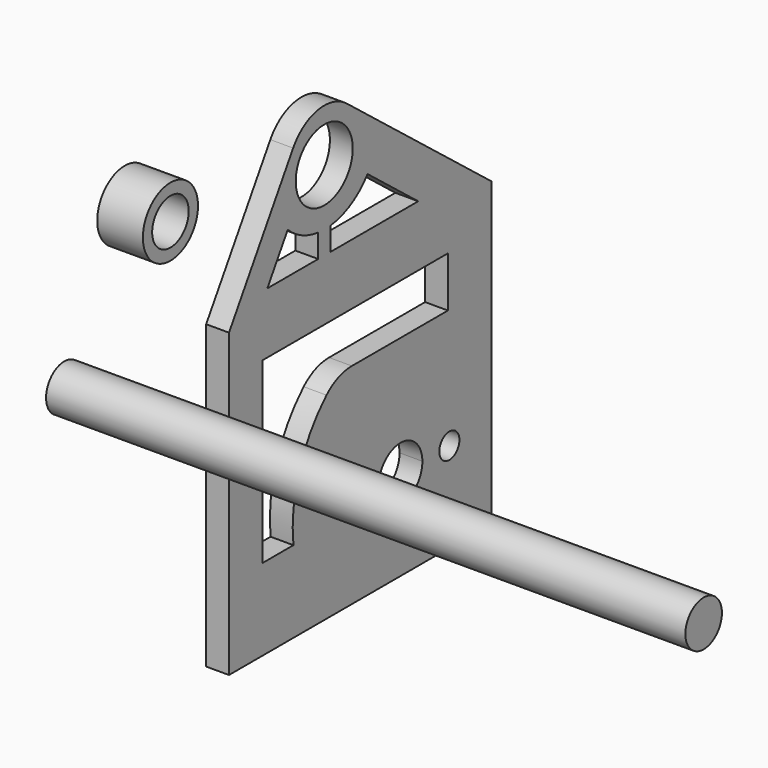
from build123d import *

# Parameters (mm, degrees)
F0_R     = 1.75
F0_R_2   = 4.953
F1_DEPTH = 3.175
F2_R     = 4.7879
F2_R_2   = 3.175
F3_DEPTH = 6.35
F4_R     = 3.175
F5_DEPTH = 88.9


with BuildPart() as f1:
    # F0 (on Right) → F1 (new body)
    with BuildSketch(Plane.YZ):
        with Locations((-8.5, -15.851508)):
            Circle(F0_R)
        with BuildLine():
            ThreePointArc((10.25, -15.851508), (8.5, -14.101508), (6.75, -15.851508))
            ThreePointArc((6.75, -15.851508), (8.5, -17.601508), (10.25, -15.851508))
        make_face()
        with BuildLine():
            Line((-29.798884, 13.558492), (-29.798884, -28.351508))
            Line((-29.798884, -28.351508), (0, -28.351508))
            Line((0, -28.351508), (15.793409, -28.351508))
            Line((15.793409, -28.351508), (15.793409, 13.558492))
            Line((15.793409, 13.558492), (-9.325447, 33.280342))
            ThreePointArc((-9.325447, 33.280342), (-14.359312, 34.537623), (-18.650459, 31.621013))
            Line((-18.650459, 31.621013), (-29.798884, 13.558492))
        make_face()
        with Locations((-8.5, -15.851508)):
            Circle(F0_R, mode=Mode.SUBTRACT)
        with BuildLine():
            Line((-23.954652, -17.007083), (-23.954652, 7.805048))
            Line((-23.954652, 7.805048), (8.252467, 7.805048))
            Line((8.252467, 7.805048), (8.252467, 0.79927))
            Line((8.252467, 0.79927), (-8.448028, 0.79927))
            ThreePointArc((-8.448028, 0.79927), (-10.824796, 0.337689), (-12.85603, -0.979951))
            ThreePointArc((-12.85603, -0.979951), (-17.602587, -8.321876), (-18.603018, -17.007083))
            Line((-18.603018, -17.007083), (-23.954652, -17.007083))
        make_face(mode=Mode.SUBTRACT)
        with BuildLine():
            ThreePointArc((3.81, -15.851508), (2.694077, -18.545585), (0, -19.661508))
            ThreePointArc((0, -19.661508), (-2.694077, -18.545585), (-3.81, -15.851508))
            ThreePointArc((-3.81, -15.851508), (0, -12.041508), (3.81, -15.851508))
        make_face(mode=Mode.SUBTRACT)
        with BuildLine():
            ThreePointArc((10.25, -15.851508), (8.5, -17.601508), (6.75, -15.851508))
            ThreePointArc((6.75, -15.851508), (8.5, -14.101508), (10.25, -15.851508))
        make_face(mode=Mode.SUBTRACT)
        with BuildLine():
            Line((-23.135227, 16.272037), (-19.596748, 22.005032))
            ThreePointArc((-19.596748, 22.005032), (-17.150351, 20.329192), (-14.300954, 19.508078))
            ThreePointArc((-14.300954, 19.508078), (-13.248808, 19.440783), (-12.195803, 19.492936))
            ThreePointArc((-12.195803, 19.492936), (-8.571525, 20.662931), (-5.719503, 23.186867))
            Line((-5.719503, 23.186867), (3.087613, 16.272037))
            Line((3.087613, 16.272037), (-12.195803, 16.272037))
            Line((-12.195803, 16.272037), (-14.300954, 16.272037))
            Line((-14.300954, 16.272037), (-23.135227, 16.272037))
        make_face(mode=Mode.SUBTRACT)
        with Locations((-13.246844, 27.359838)):
            Circle(F0_R_2, mode=Mode.SUBTRACT)
        with BuildLine():
            ThreePointArc((-12.195803, 19.492936), (-13.248808, 19.440783), (-14.300954, 19.508078))
            Line((-14.300954, 19.508078), (-14.300954, 16.272037))
            Line((-14.300954, 16.272037), (-12.195803, 16.272037))
            Line((-12.195803, 16.272037), (-12.195803, 19.492936))
        make_face()
    extrude(amount=F1_DEPTH)


with BuildPart() as f3:
    # F2 (on Right) → F3 (new body)
    with BuildSketch(Plane.YZ):
        with Locations((-43.948941, 33.927131)):
            Circle(F2_R)
        with Locations((-43.948941, 33.927131)):
            Circle(F2_R_2, mode=Mode.SUBTRACT)
    extrude(amount=F3_DEPTH)


with BuildPart() as f5:
    # F4 (on Right) → F5 (new body)
    with BuildSketch(Plane.YZ):
        with Locations((-54.45661, 15.867075)):
            Circle(F4_R)
    extrude(amount=F5_DEPTH)


solid = Compound([f1.part, f3.part, f5.part])
